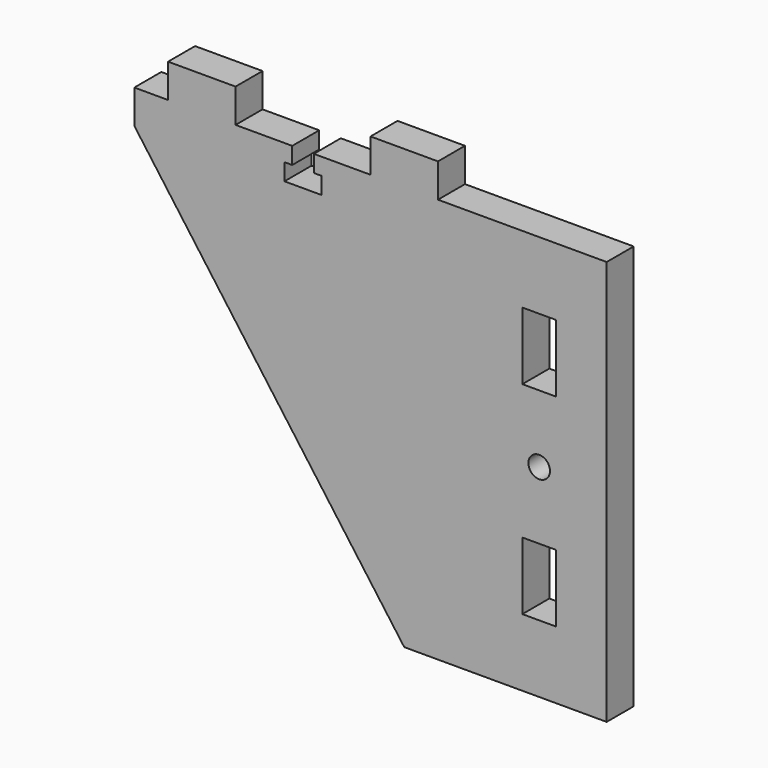
from build123d import *

# Parameters (mm, degrees)
F1_W     = 5
F1_H     = 10
F1_R     = 1.6
F2_DEPTH = 5


with BuildPart() as f2:
    # F1 (on Front) → F2 (new body)
    with BuildSketch(Plane.XZ):
        Polygon((-30, 0), (0, 0), (0, 60), (-25, 60), (-25, 65), (-35, 65), (-35, 60), (-43.4, 60), (-43.4, 57.5), (-42.25, 57.5), (-42.25, 55), (-45, 55), (-47.75, 55), (-47.75, 57.5), (-46.6, 57.5), (-46.6, 60), (-55, 60), (-55, 65), (-65, 65), (-65, 60), (-70, 60), (-70, 55), align=None)
        with Locations((-10, 15)):
            Rectangle(F1_W, F1_H, mode=Mode.SUBTRACT)
        with Locations((-10, 30)):
            Circle(F1_R, mode=Mode.SUBTRACT)
        with Locations((-10, 45)):
            Rectangle(F1_W, F1_H, mode=Mode.SUBTRACT)
    extrude(amount=F2_DEPTH)


solid = f2.part
